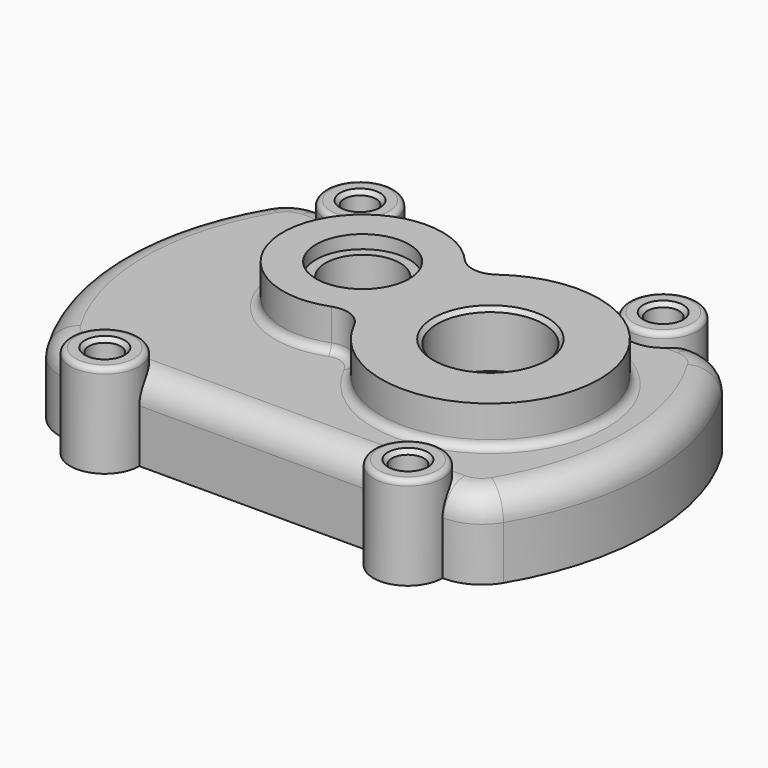
from build123d import *

# Parameters (mm, degrees)
SKETCH001_R       = 13
PAD001_DEPTH      = 5
PAD001_DEPTH_BACK = 30
PAD_DEPTH         = 30
FILLET_R          = 18
FILLET001_R       = 10
SKETCH002_R       = 6
POCKET_DEPTH      = 35.001
FILLET002_R       = 2
CHAMFER_SIZE      = 1.5
PAD002_DEPTH      = 15
FILLET003_R       = 3
SKETCH004_R       = 14
SKETCH004_R_2     = 20
POCKET001_DEPTH   = 45.001
SKETCH005_R       = 17.5
POCKET002_DEPTH   = 5
CHAMFER001_SIZE   = 1.5
POCKET003_DEPTH   = 24
FILLET004_R       = 3


with BuildPart() as pad001:
    # Sketch001 → Pad001 (new body, two sides)
    with BuildSketch(Plane.XY.offset(30)) as pad001_sk:
        with Locations((-57, -60)):
            Circle(SKETCH001_R)
        with Locations((57, -60)):
            Circle(SKETCH001_R)
        with Locations((-57, 60)):
            Circle(SKETCH001_R)
        with Locations((57, 60)):
            Circle(SKETCH001_R)
    extrude(amount=PAD001_DEPTH)
    extrude(pad001_sk.sketch, amount=-PAD001_DEPTH_BACK)


with BuildPart() as fillet004:
    # Sketch → Pad (new body)
    with BuildSketch(Plane.XY):
        with BuildLine():
            Line((-80, 60), (80, 60))
            ThreePointArc((80, -60), (100, 0), (80, 60))
            Line((80, -60), (-80, -60))
            ThreePointArc((-80, 60), (-100, 0), (-80, -60))
        make_face()
    extrude(amount=PAD_DEPTH)

    # Fillet
    fillet_edges = [fillet004.edges().sort_by_distance(p)[0] for p in [
        (80, -60, 15),
        (-80, -60, 15),
        (-80, 60, 15),
        (80, 60, 15),
    ]]
    fillet(fillet_edges, radius=FILLET_R)

    # Fillet001
    fillet001_edges = [fillet004.edges().sort_by_distance(p)[0] for p in [
        (0, -60, 30),
        (79.316834, -57.651697, 30),
        (-79.316834, -57.651697, 30),
        (100, 0, 30),
        (-100, 0, 30),
        (79.316834, 57.651697, 30),
        (-79.316834, 57.651697, 30),
        (0, 60, 30),
    ]]
    fillet(fillet001_edges, radius=FILLET001_R)

    # Fusion: union Pad001
    add(pad001.part)

    # Sketch002 → Pocket (cut, through all)
    with BuildSketch(Plane.XY.offset(35)):
        with Locations((-57, -60)):
            Circle(SKETCH002_R)
        with Locations((-57, 60)):
            Circle(SKETCH002_R)
        with Locations((57, 60)):
            Circle(SKETCH002_R)
        with Locations((57, -60)):
            Circle(SKETCH002_R)
    extrude(amount=-POCKET_DEPTH, mode=Mode.SUBTRACT)

    # Fillet002
    fillet002_edges = [fillet004.edges().sort_by_distance(p)[0] for p in [
        (-70, -60, 35),
        (-70, 60, 35),
        (44, 60, 35),
        (44, -60, 35),
    ]]
    fillet(fillet002_edges, radius=FILLET002_R)

    # Chamfer
    chamfer_edges = [fillet004.edges().sort_by_distance(p)[0] for p in [
        (-63, 60, 35),
        (51, 60, 35),
        (51, -60, 35),
        (-63, -60, 35),
    ]]
    chamfer(chamfer_edges, length=CHAMFER_SIZE)

    # Sketch003 → Pad002 (new body)
    with BuildSketch(Plane.XY.offset(30)):
        with BuildLine():
            ThreePointArc((3.166777, -18.00871), (79.775845, -9.943951), (15.974768, 33.223308))
            ThreePointArc((2.586231, 34.744927), (8.985736, 31.390533), (15.974768, 33.223308))
            ThreePointArc((2.586231, 34.744927), (-49.104275, 22.276068), (-9.362702, -13.050809))
            ThreePointArc((3.166777, -18.00871), (-2.137532, -13.102585), (-9.362702, -13.050809))
        make_face()
    extrude(amount=PAD002_DEPTH)

    # Fillet003
    fillet003_edges = [fillet004.edges().sort_by_distance(p)[0] for p in [
        (79.775845, -9.943951, 30),
        (-2.137532, -13.102585, 30),
        (-49.104275, 22.276068, 30),
        (8.985736, 31.390533, 30),
    ]]
    fillet(fillet003_edges, radius=FILLET003_R)

    # Sketch004 → Pocket001 (cut, through all)
    with BuildSketch(Plane.XY.offset(45)):
        with Locations((-20, 15)):
            Circle(SKETCH004_R)
        with Locations((40, 0)):
            Circle(SKETCH004_R_2)
    extrude(amount=-POCKET001_DEPTH, mode=Mode.SUBTRACT)

    # Sketch005 → Pocket002 (cut)
    with BuildSketch(Plane.XY.offset(45)):
        with Locations((-20.058104, 15.023317)):
            Circle(SKETCH005_R)
    extrude(amount=-POCKET002_DEPTH, mode=Mode.SUBTRACT)

    # Chamfer001
    chamfer001_edges = [fillet004.edges().sort_by_distance(p)[0] for p in [
        (20, 0, 45),
    ]]
    chamfer(chamfer001_edges, length=CHAMFER001_SIZE)

    # Sketch006 → Pocket003 (cut)
    with BuildSketch(Plane(origin=(0, 0, 0), x_dir=(1, 0, 0), z_dir=(0, 0, -1))):
        with BuildLine():
            Line((-81.406388, 47), (81.406388, 47))
            ThreePointArc((81.406388, -47), (94, 0), (81.406388, 47))
            Line((81.406388, -47), (-81.406388, -47))
            ThreePointArc((-81.406388, 47), (-94, 0), (-81.406388, -47))
        make_face()
    extrude(amount=-POCKET003_DEPTH, mode=Mode.SUBTRACT)

    # Fillet004
    fillet004_edges = [fillet004.edges().sort_by_distance(p)[0] for p in [
        (0, -47, 24),
        (94, 0, 24),
        (-94, 0, 24),
        (0, 47, 24),
    ]]
    fillet(fillet004_edges, radius=FILLET004_R)


solid = fillet004.part
